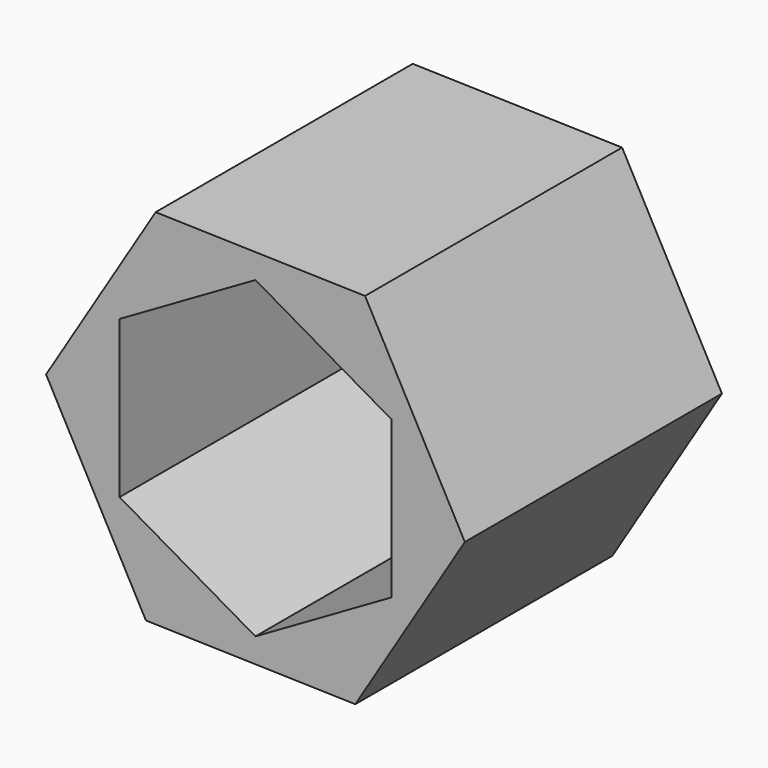
from build123d import *

# Parameters (mm, degrees)
F1_DEPTH = 111.76
F4_DEPTH = 198.374


with BuildPart() as f1:
    # F0 (on Front) → F1 (new body)
    with BuildSketch(Plane.XZ):
        Polygon((72.820076, -1.967413), (38.113868, 62.080329), (-34.706208, 64.047743), (-72.820076, 1.967413), (-38.113868, -62.080329), (34.706208, -64.047743), align=None)
    extrude(amount=F1_DEPTH)

    # F3 (on face) → F4 (cut)
    with BuildSketch(Plane.XZ.offset(111.76)):
        Polygon((47.250599, -27.280146), (47.250599, 27.280146), (0, 54.560292), (-47.250599, 27.280146), (-47.250599, -27.280146), (0, -54.560292), align=None)
    extrude(amount=-F4_DEPTH, mode=Mode.SUBTRACT)


solid = f1.part
